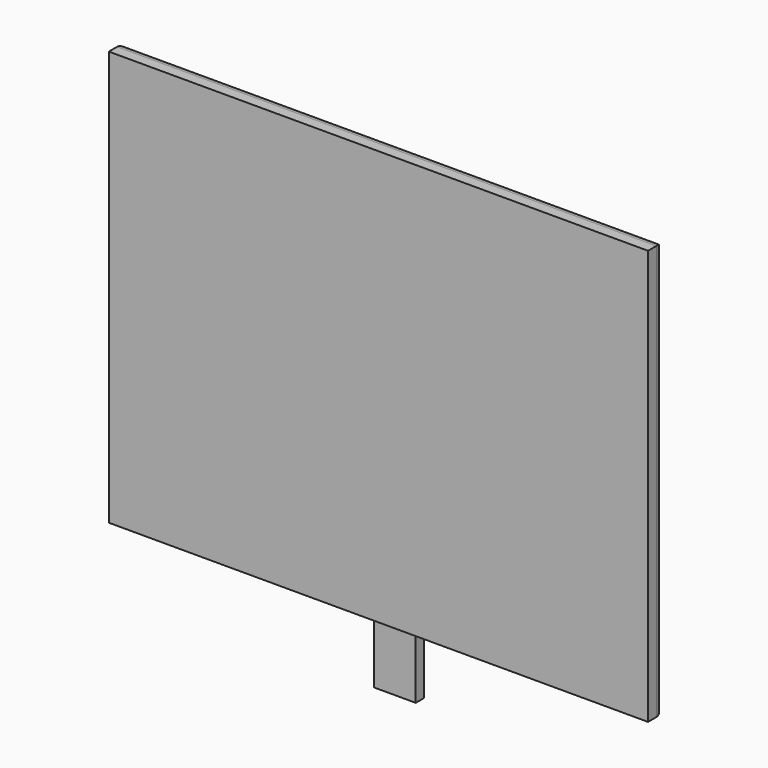
from build123d import *

# Parameters (mm, degrees)
F0_W     = 660.4
F0_H     = 508
F1_DEPTH = 25.4
F2_R     = 12.7
F3_W     = 50.8
F3_H     = 203.2
F4_DEPTH = 12.7


with BuildPart() as f1:
    # F0 (on Front) → F1 (new body)
    with BuildSketch(Plane.XZ):
        with Locations((330.2, 254)):
            Rectangle(F0_W, F0_H)
    extrude(amount=F1_DEPTH)

    # F2
    f2_edges = [f1.edges().sort_by_distance(p)[0] for p in [
        (330.2, 0, 508),
        (660.4, 0, 254),
        (330.2, 0, 0),
        (0, 0, 254),
    ]]
    fillet(f2_edges, radius=F2_R)

    # F3 (on face) → F4 (join)
    with BuildSketch(Plane(origin=(0, 0, 0), x_dir=(-1, 0, 0), z_dir=(0, 1, 0))):
        with Locations((-330.2, 12.7)):
            Rectangle(F3_W, F3_H)
    extrude(amount=F4_DEPTH)


solid = f1.part
